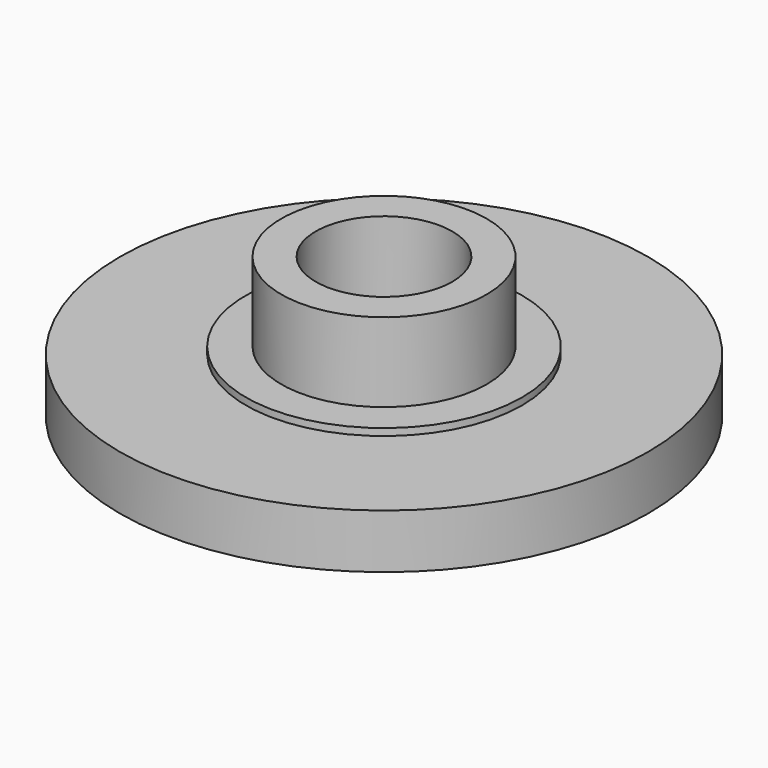
from build123d import *

# Parameters (mm, degrees)
F0_R     = 10.5156
F1_DEPTH = 2.159
F2_R     = 5.4991
F3_DEPTH = 2.4384
F4_R     = 4.0894
F5_DEPTH = 5.588
F6_T     = -1.3716


with BuildPart() as f1:
    # F0 (on Top) → F1 (new body)
    with BuildSketch(Plane.XY):
        Circle(F0_R)
    extrude(amount=F1_DEPTH)

    # F2 (on Top) → F3 (join)
    with BuildSketch(Plane.XY):
        Circle(F2_R)
    extrude(amount=F3_DEPTH)

    # F4 (on Top) → F5 (join)
    with BuildSketch(Plane.XY):
        Circle(F4_R)
    extrude(amount=F5_DEPTH)

    # F6
    f6_openings = [f1.faces().sort_by_distance(p)[0] for p in [
        (0, 0, 5.588),
    ]]
    offset(amount=F6_T, openings=f6_openings, kind=Kind.INTERSECTION)


solid = f1.part
